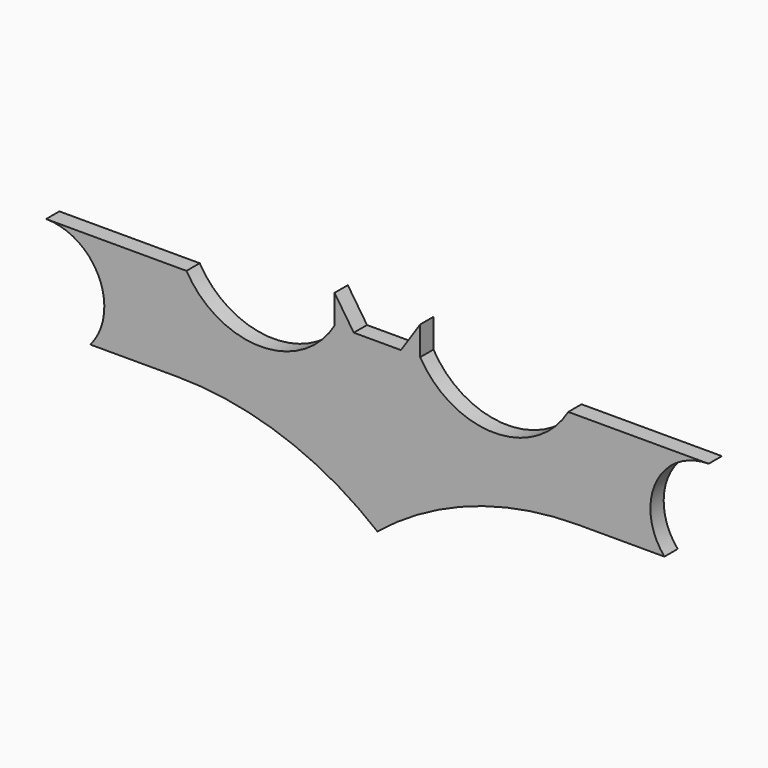
from build123d import *

# Parameters (mm, degrees)
F1_DEPTH = 1.5875


with BuildPart() as f1:
    # F0 (on Front) → F1 (new body, symmetric)
    with BuildSketch(Plane.XZ):
        with BuildLine():
            Line((4.516544, 39.664961), (0, 39.664961))
            Line((0, 39.664961), (-4.516544, 39.664961))
            Line((-4.516544, 39.664961), (-8.198804, 45.188352))
            Line((-8.198804, 45.188352), (-8.198804, 39.664961))
            ThreePointArc((-8.198804, 39.664961), (-22.375505, 31.529893), (-36.552206, 39.664961))
            Line((-36.552206, 39.664961), (-63.432701, 39.664961))
            ThreePointArc((-63.432701, 39.664961), (-53.299794, 33.172534), (-54.963503, 21.253662))
            Line((-54.963503, 21.253662), (-38.393334, 21.253662))
            ThreePointArc((-38.393334, 21.253662), (-18.023802, 17.746605), (0, 7.629301))
            ThreePointArc((0, 7.629301), (18.023802, 17.746605), (38.393334, 21.253662))
            Line((38.393334, 21.253662), (54.963503, 21.253662))
            ThreePointArc((54.963503, 21.253662), (53.299794, 33.172534), (63.432701, 39.664961))
            Line((63.432701, 39.664961), (36.552206, 39.664961))
            ThreePointArc((36.552206, 39.664961), (22.375505, 31.529893), (8.198804, 39.664961))
            Line((8.198804, 39.664961), (8.198804, 45.188352))
            Line((8.198804, 45.188352), (4.516544, 39.664961))
        make_face()
    extrude(amount=F1_DEPTH, both=True)


solid = f1.part
